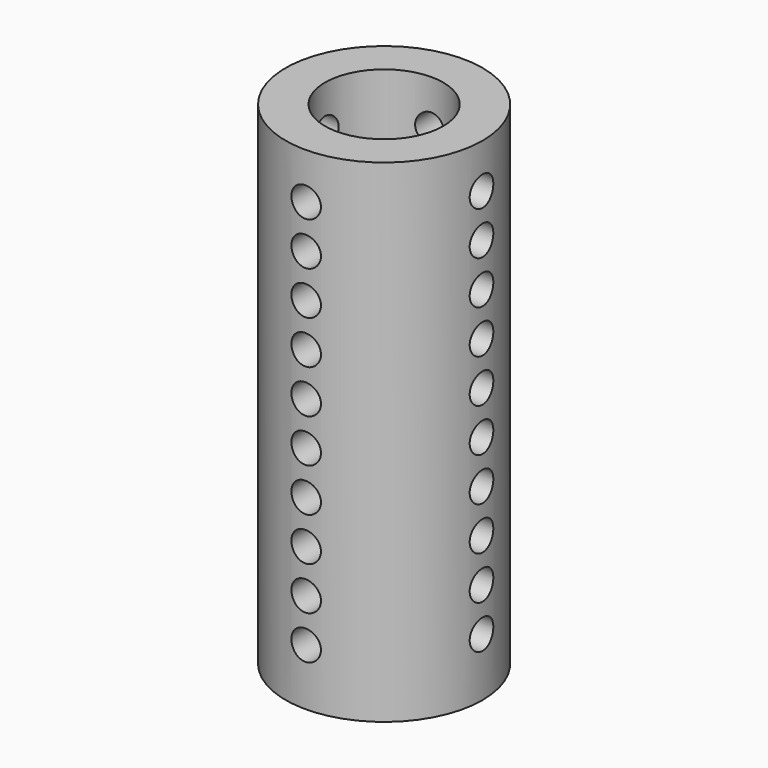
from build123d import *

# Parameters (mm, degrees)
F0_R     = 5
F0_R_2   = 3
F1_DEPTH = 25
F4_R     = 0.75
F5_DEPTH = 10.001
F7_R     = 0.75
F8_DEPTH = 10.0010001


with BuildPart() as f1:
    # F0 (on Top) → F1 (new body)
    with BuildSketch(Plane.XY):
        Circle(F0_R)
        Circle(F0_R_2, mode=Mode.SUBTRACT)
    extrude(amount=F1_DEPTH)

    # F4 (on plane+point) → F5 (cut, through all)
    with BuildSketch(Plane.YZ.offset(5)):
        with Locations((0, 2.9481973033)):
            Circle(F4_R)
        with Locations((0, 5.1481973033)):
            Circle(F4_R)
        with Locations((0, 7.3481973033)):
            Circle(F4_R)
        with Locations((0, 9.5481973033)):
            Circle(F4_R)
        with Locations((0, 11.7481973033)):
            Circle(F4_R)
        with Locations((0, 13.9481973033)):
            Circle(F4_R)
        with Locations((0, 16.1481973033)):
            Circle(F4_R)
        with Locations((0, 18.3481973033)):
            Circle(F4_R)
        with Locations((0, 20.5481973033)):
            Circle(F4_R)
        with Locations((0, 22.7481973033)):
            Circle(F4_R)
    extrude(amount=-F5_DEPTH, mode=Mode.SUBTRACT)

    # F7 (on plane+point) → F8 (cut, through all)
    with BuildSketch(Plane.XZ.offset(-5)):
        with Locations((0, 2.8663268313)):
            Circle(F7_R)
        with Locations((0, 5.0663268313)):
            Circle(F7_R)
        with Locations((0, 7.2663268313)):
            Circle(F7_R)
        with Locations((0, 9.4663268313)):
            Circle(F7_R)
        with Locations((0, 11.6663268313)):
            Circle(F7_R)
        with Locations((0, 13.8663268313)):
            Circle(F7_R)
        with Locations((0, 16.0663268313)):
            Circle(F7_R)
        with Locations((0, 18.2663268313)):
            Circle(F7_R)
        with Locations((0, 20.4663268313)):
            Circle(F7_R)
        with Locations((0, 22.6663268313)):
            Circle(F7_R)
    extrude(amount=F8_DEPTH, mode=Mode.SUBTRACT)


solid = f1.part
